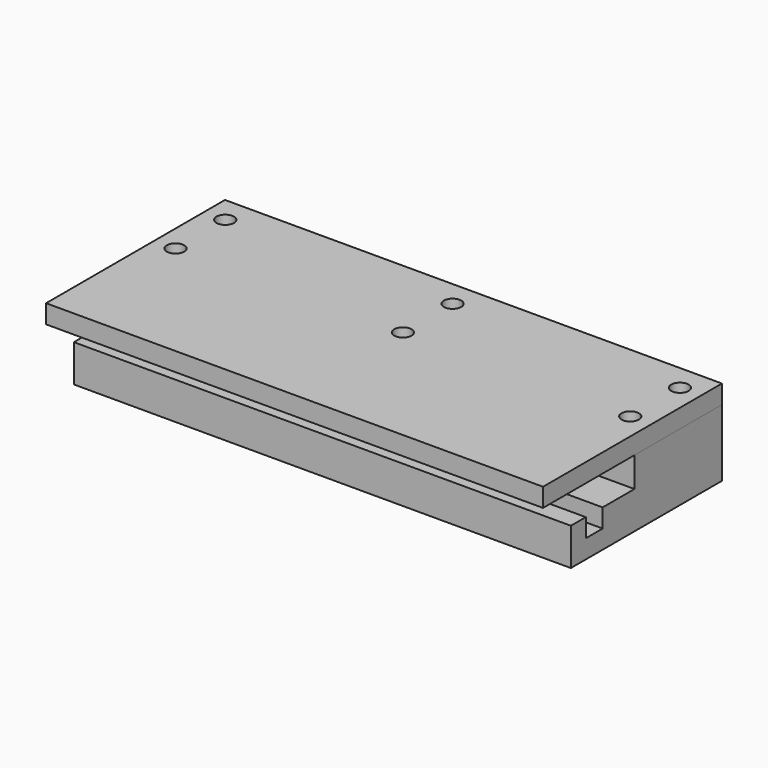
from build123d import *

# Parameters (mm, degrees)
F1_DEPTH = 101.6
F2_R     = 1.778
F3_DEPTH = 13.717
F5_DEPTH = 101.6
F6_R     = 1.778
F7_DEPTH = 3.811


with BuildPart() as f1:
    # F0 (on Right) → F1 (new body)
    with BuildSketch(Plane.YZ):
        Polygon((-6.446921, 0), (-6.446921, -7.62), (32.161079, -7.62), (32.161079, 0), (32.161079, 6.096), (9.809079, 6.096), (9.809079, 0), (1.681079, 0), (1.681079, -3.81), (-2.636921, -3.81), (-2.636921, 0), align=None)
    extrude(amount=F1_DEPTH)

    # F2 (on face) → F3 (cut, through all)
    with BuildSketch(Plane.XY.offset(6.096)):
        with Locations((97.282, 14.127079)):
            Circle(F2_R)
        with Locations((97.282, 26.827079)):
            Circle(F2_R)
        with Locations((4.318, 14.127079)):
            Circle(F2_R)
        with Locations((4.318, 26.827079)):
            Circle(F2_R)
        with Locations((50.8, 14.127079)):
            Circle(F2_R)
        with Locations((50.8, 26.827079)):
            Circle(F2_R)
    extrude(amount=-F3_DEPTH, mode=Mode.SUBTRACT)


with BuildPart() as f5:
    # F4 (on Right) → F5 (new body, through all)
    with BuildSketch(Plane.YZ):
        Polygon((-13.558921, 9.906), (-13.558921, 6.096), (9.809079, 6.096), (32.161079, 6.096), (32.161079, 9.906), align=None)
    extrude(amount=F5_DEPTH)

    # F6 (on face) → F7 (cut, through all)
    with BuildSketch(Plane(origin=(0, 0, 6.096), x_dir=(1, 0, 0), z_dir=(0, 0, -1))):
        with Locations((97.282, -14.127079)):
            Circle(F6_R)
        with Locations((50.8, -14.127079)):
            Circle(F6_R)
        with Locations((4.318, -14.127079)):
            Circle(F6_R)
        with Locations((4.318, -26.827079)):
            Circle(F6_R)
        with Locations((50.8, -26.827079)):
            Circle(F6_R)
        with Locations((97.282, -26.827079)):
            Circle(F6_R)
    extrude(amount=-F7_DEPTH, mode=Mode.SUBTRACT)


solid = Compound([f1.part, f5.part])
